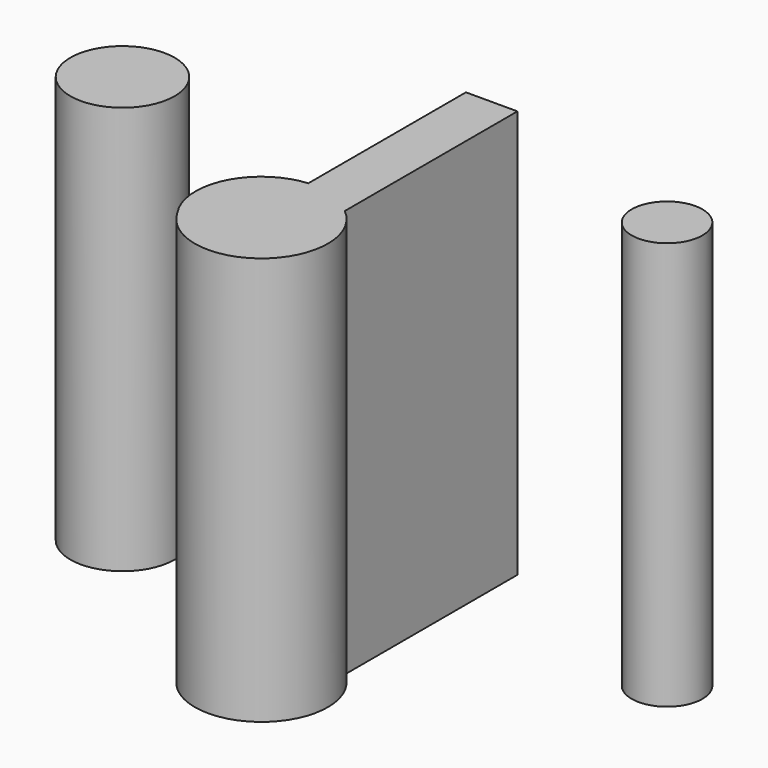
from build123d import *

# Parameters (mm, degrees)
F0_R     = 3.195129
F0_R_2   = 2.167459
F1_DEPTH = 25


with BuildPart() as f1:
    # F0 (on Top) → F1 (new body)
    with BuildSketch(Plane.XY):
        with Locations((-16.982349, 22.092082)):
            Circle(F0_R)
        with Locations((12.774332, 26.600668)):
            Circle(F0_R_2)
        with BuildLine():
            ThreePointArc((-6.161737, 12.774332), (0.011602, 11.600044), (0, 17.884066))
            ThreePointArc((0, 17.884066), (-1.451834, 18.805898), (-3.156013, 19.036909))
            ThreePointArc((-3.156013, 19.036909), (-6.457058, 16.768659), (-6.161737, 12.774332))
        make_face()
        with BuildLine():
            Line((0, 17.884066), (0, 31.109257))
            Line((0, 31.109257), (-3.156013, 31.109257))
            Line((-3.156013, 31.109257), (-3.156013, 19.036909))
            ThreePointArc((-3.156013, 19.036909), (-1.451834, 18.805898), (0, 17.884066))
        make_face()
    extrude(amount=F1_DEPTH)


solid = f1.part
